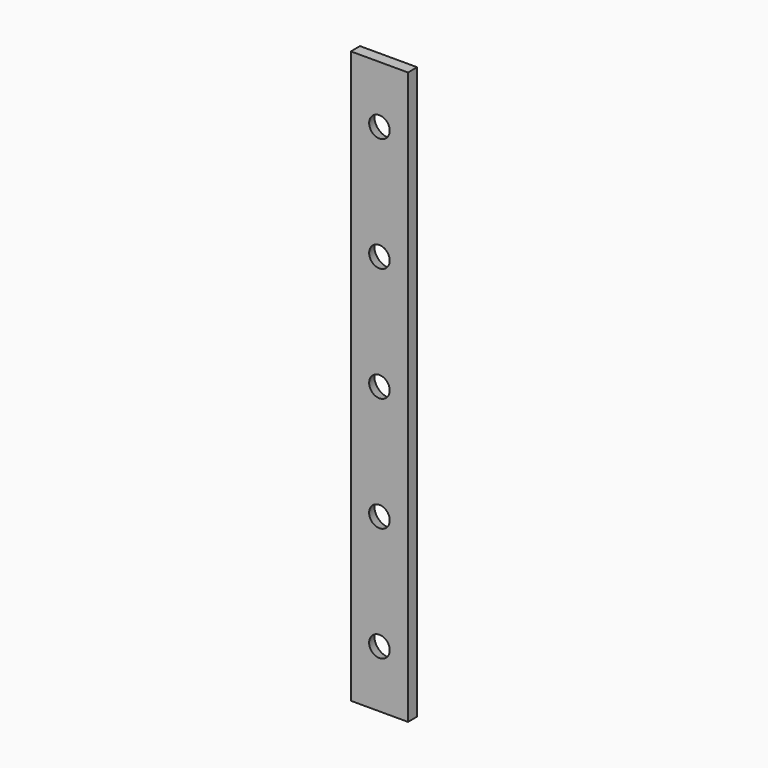
from build123d import *

# Parameters (mm, degrees)
CYLINDER070_R           = 2.5
CYLINDER070_DEPTH       = 2
CYLINDER069_R           = 1.5
CYLINDER069_DEPTH       = 10
BODY007_PLACEMENT_ANGLE = 90
ARRAY001039_Z_COUNT     = 5
ARRAY001039_Z_PITCH     = 20
BOX037_W                = 10
BOX037_H                = 2
BOX037_DEPTH            = 100


with BuildPart() as screw_cone_hole:
    # Cone005 → Cone005 (revolve)
    with BuildSketch(Plane.XZ):
        Polygon((0, 0), (2.5, 0), (1.8, 2), (0, 2), align=None)
    revolve(axis=Axis((0, 0, 0), (0, 0, 1)))


with BuildPart() as screw_head_hole:
    # Cylinder070 → Cylinder070 (new body)
    with BuildSketch(Plane.XY.offset(-2)):
        Circle(CYLINDER070_R)
    extrude(amount=CYLINDER070_DEPTH)


with BuildPart() as screw_hole_array:
    # Cylinder069 → Cylinder069 (new body)
    with BuildSketch(Plane.XY):
        Circle(CYLINDER069_R)
    extrude(amount=CYLINDER069_DEPTH)

    # Fusion047: union screw cone hole, screw head hole
    add(screw_cone_hole.part)
    add(screw_head_hole.part)


with BuildPart() as screw_hole_array_1:
    # Body007 placement: moved
    add(screw_hole_array.part.moved(Location((0, -4, 6))).rotate(Axis((0, -4, 6), (1, 0, 0)), BODY007_PLACEMENT_ANGLE))

    # Array001039 Z: screw hole array ×5


with BuildPart() as screw_hole_array_2:
    add(screw_hole_array_1.part)
    with Locations(*[(0, 0, i * ARRAY001039_Z_PITCH) for i in range(1, ARRAY001039_Z_COUNT)]):
        add(screw_hole_array_1.part)


with BuildPart() as wire_holder_cube_cut:
    # Box037 → Box037 (new body)
    with BuildSketch(Plane(origin=(-5, -6, -4), x_dir=(1, 0, 0), z_dir=(0, 0, 1))):
        with Locations((5, 1)):
            Rectangle(BOX037_W, BOX037_H)
    extrude(amount=BOX037_DEPTH)

    # Cut023010: cut screw hole array
    add(screw_hole_array_2.part, mode=Mode.SUBTRACT)


solid = wire_holder_cube_cut.part
